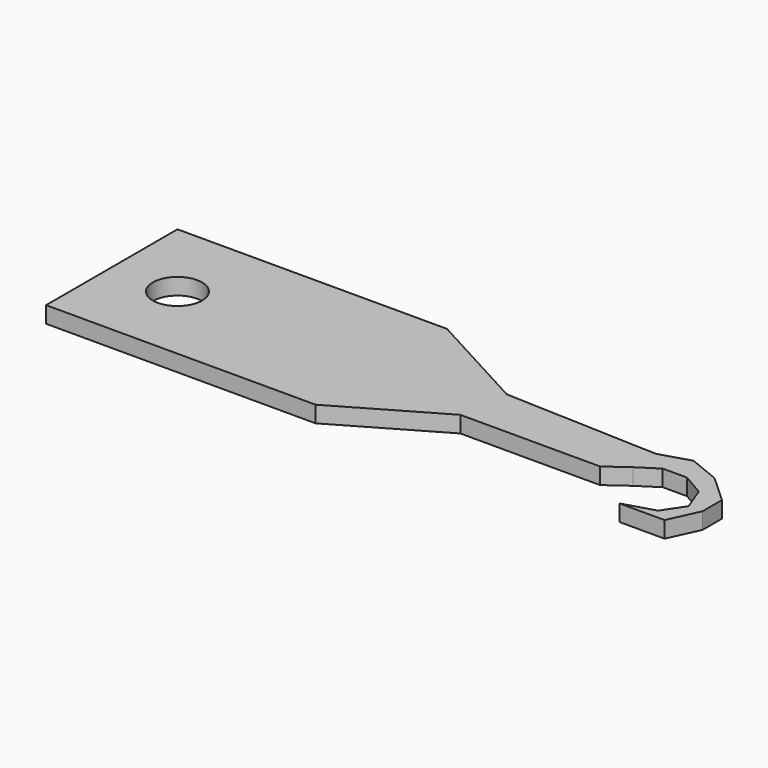
from build123d import *

# Parameters (mm, degrees)
F0_W     = 50.8
F0_H     = 12.7
F1_DEPTH = 1.27
F2_R     = 1.905
F3_DEPTH = 25.4
F5_DEPTH = 25.4


with BuildPart() as f1:
    # F0 (on Top) → F1 (new body)
    with BuildSketch(Plane.XY):
        with Locations((43.457204, -21.056446)):
            Rectangle(F0_W, F0_H)
    extrude(amount=F1_DEPTH)

    # F2 (on face) → F3 (cut)
    with BuildSketch(Plane.XY.offset(1.27)):
        with Locations((23.137204, -21.056446)):
            Circle(F2_R)
    extrude(amount=-F3_DEPTH, mode=Mode.SUBTRACT)

    # F4 (on face) → F5 (cut)
    with BuildSketch(Plane.XY.offset(1.27)):
        Polygon((58.967005, -21.819821), (57.357352, -22.98235), (46.549939, -22.98235), (38.900703, -27.406446), (68.857204, -27.406446), (68.857204, -14.706446), (38.900703, -14.706446), (47.07345, -19.137064), (58.967005, -19.58419), (61.292063, -18.868787), (63.706547, -19.852465), (65.852746, -21.819821), (65.852746, -23.697751), (64.779647, -26.022807), (61.292063, -26.022807), (63.706547, -25.307406), (64.779647, -23.697751), (64.064242, -21.819821), (62.365167, -20.836143), (60.487233, -20.836143), align=None)
    extrude(amount=-F5_DEPTH, mode=Mode.SUBTRACT)


solid = f1.part
